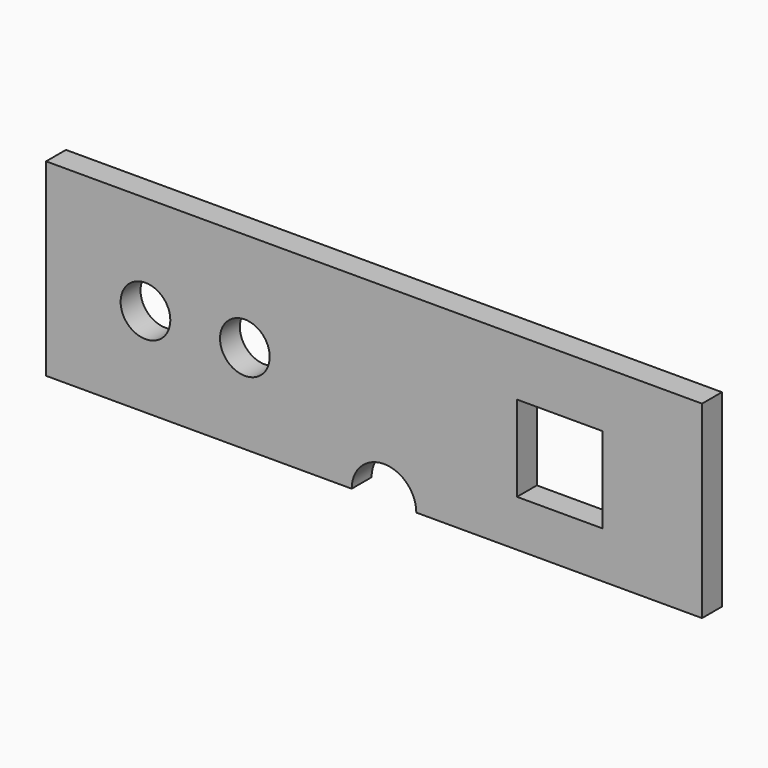
from build123d import *

# Parameters (mm, degrees)
F0_R     = 2.5
F0_W     = 8.62
F0_H     = 8.62
F1_DEPTH = 2.5
F2_DEPTH = 2.5


with BuildPart() as f1:
    # F0 (on Front) → F1 (new body)
    with BuildSketch(Plane.XZ):
        with BuildLine():
            Line((-33, 19), (-33, 0))
            Line((-33, 0), (-2.25, 0))
            ThreePointArc((-2.25, 0), (1, 3.25), (4.25, 0))
            Line((4.25, 0), (33, 0))
            Line((33, 0), (33, 19))
            Line((33, 19), (-33, 19))
        make_face()
        with Locations((-23, 9)):
            Circle(F0_R, mode=Mode.SUBTRACT)
        with Locations((-13, 9)):
            Circle(F0_R, mode=Mode.SUBTRACT)
        with Locations((18.69, 9)):
            Rectangle(F0_W, F0_H, mode=Mode.SUBTRACT)
    extrude(amount=F1_DEPTH)

    # F0 (on Front) → F2 (join)
    with BuildSketch(Plane.XZ):
        with BuildLine():
            Line((-33, 19), (-33, 0))
            Line((-33, 0), (-2.25, 0))
            ThreePointArc((-2.25, 0), (1, 3.25), (4.25, 0))
            Line((4.25, 0), (33, 0))
            Line((33, 0), (33, 19))
            Line((33, 19), (-33, 19))
        make_face()
        with Locations((-23, 9)):
            Circle(F0_R, mode=Mode.SUBTRACT)
        with Locations((-13, 9)):
            Circle(F0_R, mode=Mode.SUBTRACT)
        with Locations((18.69, 9)):
            Rectangle(F0_W, F0_H, mode=Mode.SUBTRACT)
    extrude(amount=F2_DEPTH)


solid = f1.part
